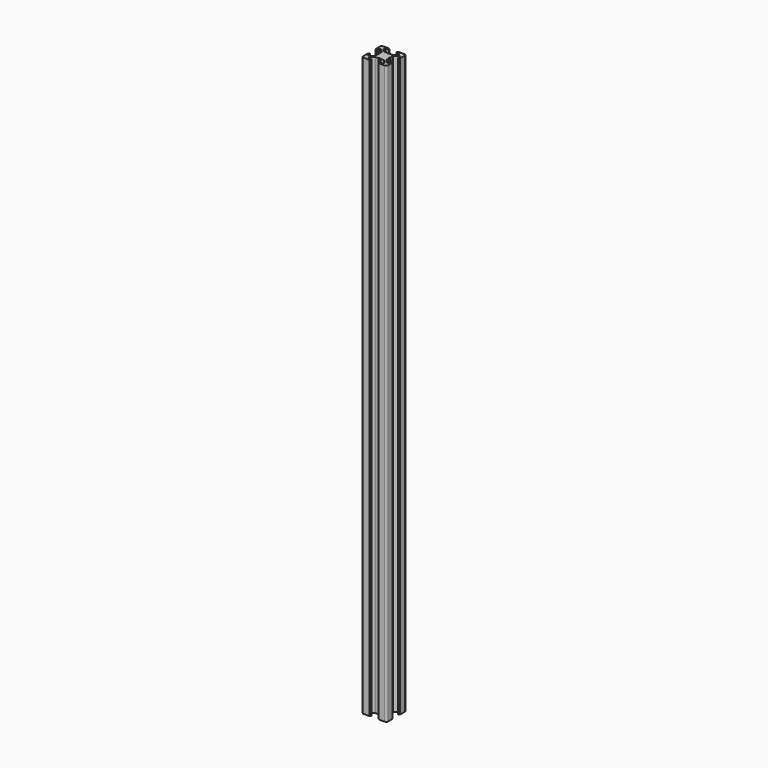
from build123d import *

# Parameters (mm, degrees)
PAD_DEPTH    = 467.5
POCKET_DEPTH = 467.501


with BuildPart() as pad:
    # Sketch → Pad (new body)
    with BuildSketch(Plane(origin=(1.5, 0, 0), x_dir=(1, 0, 0), z_dir=(0, 0, 1))):
        with BuildLine():
            Line((0, 20), (4.65, 20))
            ThreePointArc((4.85, 19.8), (4.791421, 19.941421), (4.65, 20))
            Line((4.85, 19.8), (4.85, 19.5))
            Line((4.85, 19.5), (5.2, 19.5))
            ThreePointArc((5.4, 19.3), (5.341421, 19.441421), (5.2, 19.5))
            Line((5.4, 19.3), (5.4, 19))
            ThreePointArc((4.9, 18.5), (5.253553, 18.646446), (5.4, 19))
            Line((4.9, 18.5), (2.999999, 18.5))
            ThreePointArc((2.999999, 18.5), (2.646446, 18.353553), (2.499999, 18))
            Line((2.499999, 18), (2.499999, 17.267767))
            ThreePointArc((2.499999, 17.267767), (2.53806, 17.076425), (2.646446, 16.914213))
            Line((2.646446, 16.914213), (4.914213, 14.646447))
            ThreePointArc((4.914213, 14.646447), (5.076424, 14.53806), (5.267766, 14.5))
            Line((5.267766, 14.5), (7.54641, 14.5))
            ThreePointArc((7.64641, 14.473205), (7.598173, 14.493185), (7.54641, 14.5))
            Line((7.64641, 14.473205), (8.4, 14.03812))
            ThreePointArc((8.4, 14.03812), (8.5, 14.011325), (8.6, 14.03812))
            Line((8.6, 14.03812), (9.35359, 14.473205))
            ThreePointArc((9.45359, 14.5), (9.401827, 14.493185), (9.35359, 14.473205))
            Line((9.45359, 14.5), (11.732234, 14.5))
            ThreePointArc((11.732234, 14.5), (11.923576, 14.53806), (12.085787, 14.646447))
            Line((12.085787, 14.646447), (14.353554, 16.914213))
            ThreePointArc((14.353554, 16.914213), (14.46194, 17.076425), (14.500001, 17.267767))
            Line((14.500001, 17.267767), (14.500001, 18))
            ThreePointArc((14.500001, 18), (14.353554, 18.353553), (14.000001, 18.5))
            Line((14.000001, 18.5), (12.1, 18.5))
            ThreePointArc((11.6, 19), (11.746447, 18.646446), (12.1, 18.5))
            Line((11.6, 19), (11.6, 19.3))
            ThreePointArc((11.8, 19.5), (11.658579, 19.441421), (11.6, 19.3))
            Line((11.8, 19.5), (12.15, 19.5))
            Line((12.15, 19.5), (12.15, 19.8))
            ThreePointArc((12.35, 20), (12.208579, 19.941421), (12.15, 19.8))
            Line((12.35, 20), (17, 20))
            ThreePointArc((18.5, 18.5), (18.06066, 19.56066), (17, 20))
            Line((18.5, 18.5), (18.5, 13.85))
            ThreePointArc((18.3, 13.65), (18.441421, 13.708578), (18.5, 13.85))
            Line((18.3, 13.65), (18, 13.65))
            Line((18, 13.65), (18, 13.3))
            ThreePointArc((17.8, 13.1), (17.941421, 13.158579), (18, 13.3))
            Line((17.8, 13.1), (17.5, 13.1))
            ThreePointArc((17, 13.6), (17.146446, 13.246447), (17.5, 13.1))
            Line((17, 13.6), (17, 15.5))
            ThreePointArc((17, 15.5), (16.853553, 15.853553), (16.5, 16))
            Line((16.5, 16), (15.767767, 16))
            ThreePointArc((15.767767, 16), (15.576425, 15.961939), (15.414213, 15.853553))
            Line((15.414213, 15.853553), (13.146446, 13.585786))
            ThreePointArc((13.146446, 13.585786), (13.03806, 13.423574), (13, 13.232233))
            Line((13, 13.232233), (13, 10.953589))
            ThreePointArc((12.973205, 10.853589), (12.993185, 10.901825), (13, 10.953589))
            Line((12.973205, 10.853589), (12.53812, 10.1))
            ThreePointArc((12.53812, 10.1), (12.511325, 10), (12.53812, 9.9))
            Line((12.53812, 9.9), (12.973205, 9.146411))
            ThreePointArc((13, 9.046411), (12.993185, 9.098175), (12.973205, 9.146411))
            Line((13, 9.046411), (13, 6.767767))
            ThreePointArc((13, 6.767767), (13.03806, 6.576426), (13.146446, 6.414214))
            Line((13.146446, 6.414214), (15.414213, 4.146447))
            ThreePointArc((15.414213, 4.146447), (15.576425, 4.038061), (15.767767, 4))
            Line((15.767767, 4), (16.5, 4))
            ThreePointArc((16.5, 4), (16.853553, 4.146447), (17, 4.5))
            Line((17, 4.5), (17, 6.4))
            ThreePointArc((17.5, 6.9), (17.146446, 6.753553), (17, 6.4))
            Line((17.5, 6.9), (17.8, 6.9))
            ThreePointArc((18, 6.7), (17.941421, 6.841421), (17.8, 6.9))
            Line((18, 6.7), (18, 6.35))
            Line((18, 6.35), (18.3, 6.35))
            ThreePointArc((18.5, 6.15), (18.441421, 6.291422), (18.3, 6.35))
            Line((18.5, 6.15), (18.5, 1.5))
            ThreePointArc((17, 0), (18.06066, 0.43934), (18.5, 1.5))
            Line((17, 0), (12.35, 0))
            ThreePointArc((12.15, 0.2), (12.208579, 0.058579), (12.35, 0))
            Line((12.15, 0.2), (12.15, 0.5))
            Line((12.15, 0.5), (11.8, 0.5))
            ThreePointArc((11.6, 0.7), (11.658579, 0.558579), (11.8, 0.5))
            Line((11.6, 0.7), (11.6, 1))
            ThreePointArc((12.1, 1.5), (11.746447, 1.353554), (11.6, 1))
            Line((12.1, 1.5), (14.000001, 1.5))
            ThreePointArc((14.000001, 1.5), (14.353554, 1.646447), (14.500001, 2))
            Line((14.500001, 2), (14.500001, 2.732233))
            ThreePointArc((14.500001, 2.732233), (14.46194, 2.923575), (14.353554, 3.085787))
            Line((14.353554, 3.085787), (12.085787, 5.353553))
            ThreePointArc((12.085787, 5.353553), (11.923576, 5.46194), (11.732234, 5.5))
            Line((11.732234, 5.5), (9.45359, 5.5))
            ThreePointArc((9.35359, 5.526795), (9.401827, 5.506815), (9.45359, 5.5))
            Line((9.35359, 5.526795), (8.6, 5.96188))
            ThreePointArc((8.6, 5.96188), (8.5, 5.988675), (8.4, 5.96188))
            Line((8.4, 5.96188), (7.64641, 5.526795))
            ThreePointArc((7.54641, 5.5), (7.598173, 5.506815), (7.64641, 5.526795))
            Line((7.54641, 5.5), (5.267766, 5.5))
            ThreePointArc((5.267766, 5.5), (5.076424, 5.46194), (4.914213, 5.353553))
            Line((4.914213, 5.353553), (2.646446, 3.085787))
            ThreePointArc((2.646446, 3.085787), (2.53806, 2.923575), (2.499999, 2.732233))
            Line((2.499999, 2.732233), (2.499999, 2))
            ThreePointArc((2.499999, 2), (2.646446, 1.646447), (2.999999, 1.5))
            Line((2.999999, 1.5), (4.9, 1.5))
            ThreePointArc((5.4, 1), (5.253553, 1.353554), (4.9, 1.5))
            Line((5.4, 1), (5.4, 0.7))
            ThreePointArc((5.2, 0.5), (5.341421, 0.558579), (5.4, 0.7))
            Line((5.2, 0.5), (4.85, 0.5))
            Line((4.85, 0.5), (4.85, 0.2))
            ThreePointArc((4.65, 0), (4.791421, 0.058579), (4.85, 0.2))
            Line((4.65, 0), (0, 0))
            ThreePointArc((-1.5, 1.5), (-1.06066, 0.43934), (0, 0))
            Line((-1.5, 1.5), (-1.5, 6.15))
            ThreePointArc((-1.3, 6.35), (-1.441421, 6.291422), (-1.5, 6.15))
            Line((-1.3, 6.35), (-1, 6.35))
            Line((-1, 6.35), (-1, 6.7))
            ThreePointArc((-0.8, 6.9), (-0.941421, 6.841421), (-1, 6.7))
            Line((-0.8, 6.9), (-0.5, 6.9))
            ThreePointArc((0, 6.4), (-0.146446, 6.753553), (-0.5, 6.9))
            Line((0, 6.4), (0, 4.5))
            ThreePointArc((0, 4.5), (0.146447, 4.146447), (0.5, 4))
            Line((0.5, 4), (1.232233, 4))
            ThreePointArc((1.232233, 4), (1.423575, 4.038061), (1.585787, 4.146447))
            Line((1.585787, 4.146447), (3.853554, 6.414214))
            ThreePointArc((3.853554, 6.414214), (3.96194, 6.576426), (4, 6.767767))
            Line((4, 6.767767), (4, 9.046411))
            ThreePointArc((4.026795, 9.146411), (4.006815, 9.098175), (4, 9.046411))
            Line((4.026795, 9.146411), (4.46188, 9.9))
            ThreePointArc((4.46188, 9.9), (4.488675, 10), (4.46188, 10.1))
            Line((4.46188, 10.1), (4.026795, 10.853589))
            ThreePointArc((4, 10.953589), (4.006815, 10.901825), (4.026795, 10.853589))
            Line((4, 10.953589), (4, 13.232233))
            ThreePointArc((4, 13.232233), (3.96194, 13.423574), (3.853554, 13.585786))
            Line((3.853554, 13.585786), (1.585787, 15.853553))
            ThreePointArc((1.585787, 15.853553), (1.423575, 15.961939), (1.232233, 16))
            Line((1.232233, 16), (0.5, 16))
            ThreePointArc((0.5, 16), (0.146447, 15.853553), (0, 15.5))
            Line((0, 15.5), (0, 13.6))
            ThreePointArc((-0.5, 13.1), (-0.146446, 13.246447), (0, 13.6))
            Line((-0.5, 13.1), (-0.8, 13.1))
            ThreePointArc((-1, 13.3), (-0.941421, 13.158579), (-0.8, 13.1))
            Line((-1, 13.3), (-1, 13.65))
            Line((-1, 13.65), (-1.3, 13.65))
            ThreePointArc((-1.5, 13.85), (-1.441421, 13.708578), (-1.3, 13.65))
            Line((-1.5, 13.85), (-1.5, 18.5))
            ThreePointArc((0, 20), (-1.06066, 19.56066), (-1.5, 18.5))
        make_face()
    extrude(amount=PAD_DEPTH)


with BuildPart() as fusion:
    # Pocket base: copy of Pad
    add(pad.part)

    # Sketch001 → Pocket (cut, through all)
    with BuildSketch(Plane(origin=(1.5, 0, 467.5), x_dir=(1, 0, 0), z_dir=(0, 0, 1))):
        with BuildLine():
            ThreePointArc((6.586105, 12.989641), (5.988263, 12.50841), (5.507825, 11.909931))
            Line((6.054705, 11.258185), (5.507825, 11.909931))
            ThreePointArc((6.054705, 11.258185), (5.75, 10), (6.054705, 8.741815))
            Line((5.507825, 8.090069), (6.054705, 8.741815))
            ThreePointArc((5.507825, 8.090069), (5.988263, 7.49159), (6.586105, 7.010359))
            Line((7.241815, 7.554705), (6.586105, 7.010359))
            ThreePointArc((7.241815, 7.554705), (8.5, 7.25), (9.758185, 7.554705))
            Line((10.413895, 7.010359), (9.758185, 7.554705))
            ThreePointArc((10.413895, 7.010359), (11.011737, 7.49159), (11.492175, 8.090069))
            Line((10.945295, 8.741815), (11.492175, 8.090069))
            ThreePointArc((10.945295, 8.741815), (11.25, 10), (10.945295, 11.258185))
            Line((11.492175, 11.909931), (10.945295, 11.258185))
            ThreePointArc((11.492175, 11.909931), (11.011737, 12.50841), (10.413895, 12.989641))
            Line((9.758185, 12.445295), (10.413895, 12.989641))
            ThreePointArc((9.758185, 12.445295), (8.5, 12.75), (7.241815, 12.445295))
            Line((6.586105, 12.989641), (7.241815, 12.445295))
        make_face()
    extrude(amount=-POCKET_DEPTH, mode=Mode.SUBTRACT)

    # Fusion: union Pad
    add(pad.part)


solid = fusion.part
